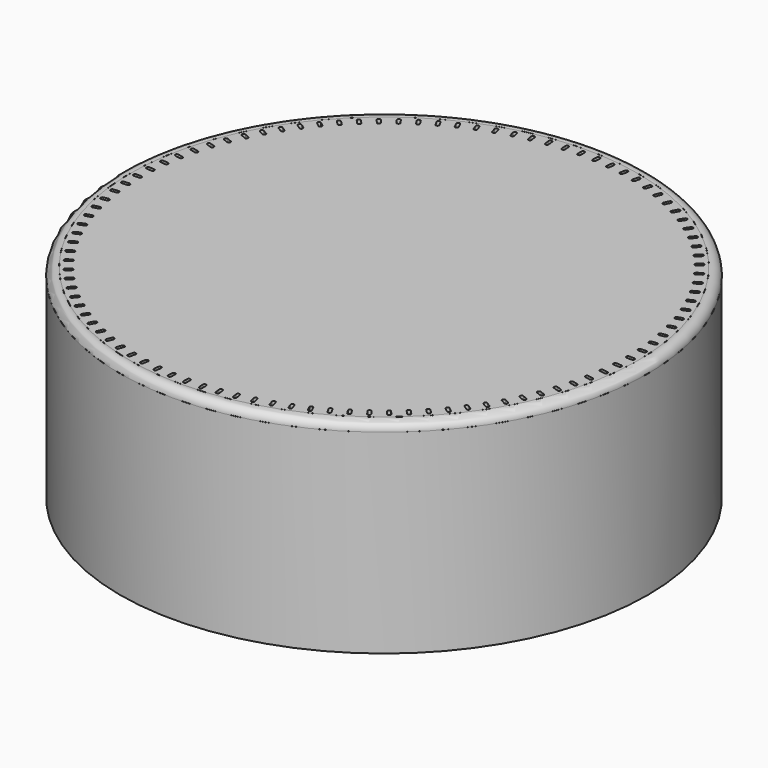
from build123d import *

# Parameters (mm, degrees)
F0_R     = 41.275
F1_DEPTH = 30.48
F2_R     = 39.6875
F3_DEPTH = 1.27
F8_DEPTH = 31.751


with BuildPart() as f1:
    # F0 (on Top) → F1 (new body)
    with BuildSketch(Plane.XY):
        Circle(F0_R)
    extrude(amount=F1_DEPTH)

    # F2 (on face) → F3 (join)
    with BuildSketch(Plane.XY.offset(30.48)):
        Circle(F2_R)
    extrude(amount=F3_DEPTH)

    # F7 (on face) → F8 (cut, through all)
    with BuildSketch(Plane.XY.offset(31.75)):
        with BuildLine():
            ThreePointArc((0.254, 38.9255), (0, 39.1795), (-0.254, 38.9255))
            Line((-0.254, 38.9255), (-0.254, 38.1635))
            ThreePointArc((-0.254, 38.1635), (0, 37.9095), (0.254, 38.1635))
            Line((0.254, 38.1635), (0.254, 38.9255))
        make_face()
        with BuildLine():
            Line((-2.142807, 38.104142), (-2.190654, 38.864638))
            ThreePointArc((-2.190654, 38.864638), (-2.460101, 39.102188), (-2.697651, 38.832741))
            Line((-2.697651, 38.832741), (-2.649805, 38.072244))
            ThreePointArc((-2.649805, 38.072244), (-2.380357, 37.834694), (-2.142807, 38.104142))
        make_face()
        with BuildLine():
            Line((-4.531158, 37.894404), (-4.626662, 38.650395))
            ThreePointArc((-4.626662, 38.650395), (-4.910493, 38.870558), (-5.130656, 38.586726))
            Line((-5.130656, 38.586726), (-5.035152, 37.830735))
            ThreePointArc((-5.035152, 37.830735), (-4.75132, 37.610572), (-4.531158, 37.894404))
        make_face()
        with BuildLine():
            Line((-6.901626, 37.535114), (-7.04441, 38.283617))
            ThreePointArc((-7.04441, 38.283617), (-7.341506, 38.485523), (-7.543412, 38.188428))
            Line((-7.543412, 38.188428), (-7.400628, 37.439925))
            ThreePointArc((-7.400628, 37.439925), (-7.103532, 37.238019), (-6.901626, 37.535114))
        make_face()
        with BuildLine():
            Line((-9.244856, 37.027691), (-9.434358, 37.765751))
            ThreePointArc((-9.434358, 37.765751), (-9.743545, 37.948604), (-9.926398, 37.639417))
            Line((-9.926398, 37.639417), (-9.736897, 36.901356))
            ThreePointArc((-9.736897, 36.901356), (-9.427709, 36.718503), (-9.244856, 37.027691))
        make_face()
        with BuildLine():
            Line((-11.551602, 36.374136), (-11.787073, 37.098841))
            ThreePointArc((-11.787073, 37.098841), (-12.107131, 37.261919), (-12.270209, 36.94186))
            Line((-12.270209, 36.94186), (-12.034738, 36.217155))
            ThreePointArc((-12.034738, 36.217155), (-11.71468, 36.054077), (-11.551602, 36.374136))
        make_face()
        with BuildLine():
            Line((-13.812758, 35.577029), (-14.093269, 36.285518))
            ThreePointArc((-14.093269, 36.285518), (-14.422936, 36.428178), (-14.565596, 36.098511))
            Line((-14.565596, 36.098511), (-14.285085, 35.390021))
            ThreePointArc((-14.285085, 35.390021), (-13.955418, 35.247362), (-13.812758, 35.577029))
        make_face()
        with BuildLine():
            Line((-16.019402, 34.639515), (-16.343846, 35.328993))
            ThreePointArc((-16.343846, 35.328993), (-16.68182, 35.450672), (-16.803498, 35.112697))
            Line((-16.803498, 35.112697), (-16.479054, 34.423219))
            ThreePointArc((-16.479054, 34.423219), (-16.14108, 34.301541), (-16.019402, 34.639515))
        make_face()
        with BuildLine():
            Line((-18.162824, 33.565295), (-18.529921, 34.233041))
            ThreePointArc((-18.529921, 34.233041), (-18.874868, 34.333258), (-18.975085, 33.98831))
            Line((-18.975085, 33.98831), (-18.607988, 33.320565))
            ThreePointArc((-18.607988, 33.320565), (-18.263041, 33.220348), (-18.162824, 33.565295))
        make_face()
        with BuildLine():
            Line((-20.234567, 32.358609), (-20.642867, 33.001987))
            ThreePointArc((-20.642867, 33.001987), (-20.993426, 33.080346), (-21.071785, 32.729787))
            Line((-21.071785, 32.729787), (-20.663485, 32.086409))
            ThreePointArc((-20.663485, 32.086409), (-20.312926, 32.008049), (-20.234567, 32.358609))
        make_face()
        with BuildLine():
            Line((-22.226452, 31.024218), (-22.674345, 31.640688))
            ThreePointArc((-22.674345, 31.640688), (-23.029132, 31.696881), (-23.085325, 31.342094))
            Line((-23.085325, 31.342094), (-22.637433, 30.725623))
            ThreePointArc((-22.637433, 30.725623), (-22.282645, 30.66943), (-22.226452, 31.024218))
        make_face()
        with BuildLine():
            Line((-24.13062, 29.567388), (-24.616337, 30.154519))
            ThreePointArc((-24.616337, 30.154519), (-24.973953, 30.188324), (-25.007758, 29.830708))
            Line((-25.007758, 29.830708), (-24.522041, 29.243576))
            ThreePointArc((-24.522041, 29.243576), (-24.164425, 29.209772), (-24.13062, 29.567388))
        make_face()
        with BuildLine():
            Line((-25.939555, 27.993869), (-26.46118, 28.549343))
            ThreePointArc((-26.46118, 28.549343), (-26.820213, 28.560626), (-26.831496, 28.201593))
            Line((-26.831496, 28.201593), (-26.309872, 27.646119))
            ThreePointArc((-26.309872, 27.646119), (-25.950839, 27.634836), (-25.939555, 27.993869))
        make_face()
        with BuildLine():
            Line((-27.646119, 26.309872), (-28.201593, 26.831496))
            ThreePointArc((-28.201593, 26.831496), (-28.560626, 26.820213), (-28.549343, 26.46118))
            Line((-28.549343, 26.46118), (-27.993869, 25.939555))
            ThreePointArc((-27.993869, 25.939555), (-27.634836, 25.950839), (-27.646119, 26.309872))
        make_face()
        with BuildLine():
            Line((-29.243576, 24.522041), (-29.830708, 25.007758))
            ThreePointArc((-29.830708, 25.007758), (-30.188324, 24.973953), (-30.154519, 24.616337))
            Line((-30.154519, 24.616337), (-29.567388, 24.13062))
            ThreePointArc((-29.567388, 24.13062), (-29.209772, 24.164425), (-29.243576, 24.522041))
        make_face()
        with BuildLine():
            Line((-30.725623, 22.637433), (-31.342094, 23.085325))
            ThreePointArc((-31.342094, 23.085325), (-31.696881, 23.029132), (-31.640688, 22.674345))
            Line((-31.640688, 22.674345), (-31.024218, 22.226452))
            ThreePointArc((-31.024218, 22.226452), (-30.66943, 22.282645), (-30.725623, 22.637433))
        make_face()
        with BuildLine():
            Line((-32.086409, 20.663485), (-32.729787, 21.071785))
            ThreePointArc((-32.729787, 21.071785), (-33.080346, 20.993426), (-33.001987, 20.642867))
            Line((-33.001987, 20.642867), (-32.358609, 20.234567))
            ThreePointArc((-32.358609, 20.234567), (-32.008049, 20.312926), (-32.086409, 20.663485))
        make_face()
        with BuildLine():
            Line((-33.320565, 18.607988), (-33.98831, 18.975085))
            ThreePointArc((-33.98831, 18.975085), (-34.333258, 18.874868), (-34.233041, 18.529921))
            Line((-34.233041, 18.529921), (-33.565295, 18.162824))
            ThreePointArc((-33.565295, 18.162824), (-33.220348, 18.263041), (-33.320565, 18.607988))
        make_face()
        with BuildLine():
            Line((-34.423219, 16.479054), (-35.112697, 16.803498))
            ThreePointArc((-35.112697, 16.803498), (-35.450672, 16.68182), (-35.328993, 16.343846))
            Line((-35.328993, 16.343846), (-34.639515, 16.019402))
            ThreePointArc((-34.639515, 16.019402), (-34.301541, 16.14108), (-34.423219, 16.479054))
        make_face()
        with BuildLine():
            Line((-35.390021, 14.285085), (-36.098511, 14.565596))
            ThreePointArc((-36.098511, 14.565596), (-36.428178, 14.422936), (-36.285518, 14.093269))
            Line((-36.285518, 14.093269), (-35.577029, 13.812758))
            ThreePointArc((-35.577029, 13.812758), (-35.247362, 13.955418), (-35.390021, 14.285085))
        make_face()
        with BuildLine():
            Line((-36.217155, 12.034738), (-36.94186, 12.270209))
            ThreePointArc((-36.94186, 12.270209), (-37.261919, 12.107131), (-37.098841, 11.787073))
            Line((-37.098841, 11.787073), (-36.374136, 11.551602))
            ThreePointArc((-36.374136, 11.551602), (-36.054077, 11.71468), (-36.217155, 12.034738))
        make_face()
        with BuildLine():
            Line((-36.901356, 9.736897), (-37.639417, 9.926398))
            ThreePointArc((-37.639417, 9.926398), (-37.948604, 9.743545), (-37.765751, 9.434358))
            Line((-37.765751, 9.434358), (-37.027691, 9.244856))
            ThreePointArc((-37.027691, 9.244856), (-36.718503, 9.427709), (-36.901356, 9.736897))
        make_face()
        with BuildLine():
            Line((-37.439925, 7.400628), (-38.188428, 7.543412))
            ThreePointArc((-38.188428, 7.543412), (-38.485523, 7.341506), (-38.283617, 7.04441))
            Line((-38.283617, 7.04441), (-37.535114, 6.901626))
            ThreePointArc((-37.535114, 6.901626), (-37.238019, 7.103532), (-37.439925, 7.400628))
        make_face()
        with BuildLine():
            Line((-37.830735, 5.035152), (-38.586726, 5.130656))
            ThreePointArc((-38.586726, 5.130656), (-38.870558, 4.910493), (-38.650395, 4.626662))
            Line((-38.650395, 4.626662), (-37.894404, 4.531158))
            ThreePointArc((-37.894404, 4.531158), (-37.610572, 4.75132), (-37.830735, 5.035152))
        make_face()
        with BuildLine():
            Line((-38.072244, 2.649805), (-38.832741, 2.697651))
            ThreePointArc((-38.832741, 2.697651), (-39.102188, 2.460101), (-38.864638, 2.190654))
            Line((-38.864638, 2.190654), (-38.104142, 2.142807))
            ThreePointArc((-38.104142, 2.142807), (-37.834694, 2.380357), (-38.072244, 2.649805))
        make_face()
        with BuildLine():
            Line((-38.1635, 0.254), (-38.9255, 0.254))
            ThreePointArc((-38.9255, 0.254), (-39.1795, 0), (-38.9255, -0.254))
            Line((-38.9255, -0.254), (-38.1635, -0.254))
            ThreePointArc((-38.1635, -0.254), (-37.9095, 0), (-38.1635, 0.254))
        make_face()
        with BuildLine():
            Line((-38.104142, -2.142807), (-38.864638, -2.190654))
            ThreePointArc((-38.864638, -2.190654), (-39.102188, -2.460101), (-38.832741, -2.697651))
            Line((-38.832741, -2.697651), (-38.072244, -2.649805))
            ThreePointArc((-38.072244, -2.649805), (-37.834694, -2.380357), (-38.104142, -2.142807))
        make_face()
        with BuildLine():
            Line((-37.894404, -4.531158), (-38.650395, -4.626662))
            ThreePointArc((-38.650395, -4.626662), (-38.870558, -4.910493), (-38.586726, -5.130656))
            Line((-38.586726, -5.130656), (-37.830735, -5.035152))
            ThreePointArc((-37.830735, -5.035152), (-37.610572, -4.75132), (-37.894404, -4.531158))
        make_face()
        with BuildLine():
            Line((-37.535114, -6.901626), (-38.283617, -7.04441))
            ThreePointArc((-38.283617, -7.04441), (-38.485523, -7.341506), (-38.188428, -7.543412))
            Line((-38.188428, -7.543412), (-37.439925, -7.400628))
            ThreePointArc((-37.439925, -7.400628), (-37.238019, -7.103532), (-37.535114, -6.901626))
        make_face()
        with BuildLine():
            Line((-37.027691, -9.244856), (-37.765751, -9.434358))
            ThreePointArc((-37.765751, -9.434358), (-37.948604, -9.743545), (-37.639417, -9.926398))
            Line((-37.639417, -9.926398), (-36.901356, -9.736897))
            ThreePointArc((-36.901356, -9.736897), (-36.718503, -9.427709), (-37.027691, -9.244856))
        make_face()
        with BuildLine():
            Line((-36.374136, -11.551602), (-37.098841, -11.787073))
            ThreePointArc((-37.098841, -11.787073), (-37.261919, -12.107131), (-36.94186, -12.270209))
            Line((-36.94186, -12.270209), (-36.217155, -12.034738))
            ThreePointArc((-36.217155, -12.034738), (-36.054077, -11.71468), (-36.374136, -11.551602))
        make_face()
        with BuildLine():
            Line((-35.577029, -13.812758), (-36.285518, -14.093269))
            ThreePointArc((-36.285518, -14.093269), (-36.428178, -14.422936), (-36.098511, -14.565596))
            Line((-36.098511, -14.565596), (-35.390021, -14.285085))
            ThreePointArc((-35.390021, -14.285085), (-35.247362, -13.955418), (-35.577029, -13.812758))
        make_face()
        with BuildLine():
            Line((-34.639515, -16.019402), (-35.328993, -16.343846))
            ThreePointArc((-35.328993, -16.343846), (-35.450672, -16.68182), (-35.112697, -16.803498))
            Line((-35.112697, -16.803498), (-34.423219, -16.479054))
            ThreePointArc((-34.423219, -16.479054), (-34.301541, -16.14108), (-34.639515, -16.019402))
        make_face()
        with BuildLine():
            Line((-33.565295, -18.162824), (-34.233041, -18.529921))
            ThreePointArc((-34.233041, -18.529921), (-34.333258, -18.874868), (-33.98831, -18.975085))
            Line((-33.98831, -18.975085), (-33.320565, -18.607988))
            ThreePointArc((-33.320565, -18.607988), (-33.220348, -18.263041), (-33.565295, -18.162824))
        make_face()
        with BuildLine():
            Line((-32.358609, -20.234567), (-33.001987, -20.642867))
            ThreePointArc((-33.001987, -20.642867), (-33.080346, -20.993426), (-32.729787, -21.071785))
            Line((-32.729787, -21.071785), (-32.086409, -20.663485))
            ThreePointArc((-32.086409, -20.663485), (-32.008049, -20.312926), (-32.358609, -20.234567))
        make_face()
        with BuildLine():
            Line((-31.024218, -22.226452), (-31.640688, -22.674345))
            ThreePointArc((-31.640688, -22.674345), (-31.696881, -23.029132), (-31.342094, -23.085325))
            Line((-31.342094, -23.085325), (-30.725623, -22.637433))
            ThreePointArc((-30.725623, -22.637433), (-30.66943, -22.282645), (-31.024218, -22.226452))
        make_face()
        with BuildLine():
            Line((-29.567388, -24.13062), (-30.154519, -24.616337))
            ThreePointArc((-30.154519, -24.616337), (-30.188324, -24.973953), (-29.830708, -25.007758))
            Line((-29.830708, -25.007758), (-29.243576, -24.522041))
            ThreePointArc((-29.243576, -24.522041), (-29.209772, -24.164425), (-29.567388, -24.13062))
        make_face()
        with BuildLine():
            Line((-27.993869, -25.939555), (-28.549343, -26.46118))
            ThreePointArc((-28.549343, -26.46118), (-28.560626, -26.820213), (-28.201593, -26.831496))
            Line((-28.201593, -26.831496), (-27.646119, -26.309872))
            ThreePointArc((-27.646119, -26.309872), (-27.634836, -25.950839), (-27.993869, -25.939555))
        make_face()
        with BuildLine():
            Line((-26.309872, -27.646119), (-26.831496, -28.201593))
            ThreePointArc((-26.831496, -28.201593), (-26.820213, -28.560626), (-26.46118, -28.549343))
            Line((-26.46118, -28.549343), (-25.939555, -27.993869))
            ThreePointArc((-25.939555, -27.993869), (-25.950839, -27.634836), (-26.309872, -27.646119))
        make_face()
        with BuildLine():
            Line((-24.522041, -29.243576), (-25.007758, -29.830708))
            ThreePointArc((-25.007758, -29.830708), (-24.973953, -30.188324), (-24.616337, -30.154519))
            Line((-24.616337, -30.154519), (-24.13062, -29.567388))
            ThreePointArc((-24.13062, -29.567388), (-24.164425, -29.209772), (-24.522041, -29.243576))
        make_face()
        with BuildLine():
            Line((-22.637433, -30.725623), (-23.085325, -31.342094))
            ThreePointArc((-23.085325, -31.342094), (-23.029132, -31.696881), (-22.674345, -31.640688))
            Line((-22.674345, -31.640688), (-22.226452, -31.024218))
            ThreePointArc((-22.226452, -31.024218), (-22.282645, -30.66943), (-22.637433, -30.725623))
        make_face()
        with BuildLine():
            Line((-20.663485, -32.086409), (-21.071785, -32.729787))
            ThreePointArc((-21.071785, -32.729787), (-20.993426, -33.080346), (-20.642867, -33.001987))
            Line((-20.642867, -33.001987), (-20.234567, -32.358609))
            ThreePointArc((-20.234567, -32.358609), (-20.312926, -32.008049), (-20.663485, -32.086409))
        make_face()
        with BuildLine():
            Line((-18.607988, -33.320565), (-18.975085, -33.98831))
            ThreePointArc((-18.975085, -33.98831), (-18.874868, -34.333258), (-18.529921, -34.233041))
            Line((-18.529921, -34.233041), (-18.162824, -33.565295))
            ThreePointArc((-18.162824, -33.565295), (-18.263041, -33.220348), (-18.607988, -33.320565))
        make_face()
        with BuildLine():
            Line((-16.479054, -34.423219), (-16.803498, -35.112697))
            ThreePointArc((-16.803498, -35.112697), (-16.68182, -35.450672), (-16.343846, -35.328993))
            Line((-16.343846, -35.328993), (-16.019402, -34.639515))
            ThreePointArc((-16.019402, -34.639515), (-16.14108, -34.301541), (-16.479054, -34.423219))
        make_face()
        with BuildLine():
            Line((-14.285085, -35.390021), (-14.565596, -36.098511))
            ThreePointArc((-14.565596, -36.098511), (-14.422936, -36.428178), (-14.093269, -36.285518))
            Line((-14.093269, -36.285518), (-13.812758, -35.577029))
            ThreePointArc((-13.812758, -35.577029), (-13.955418, -35.247362), (-14.285085, -35.390021))
        make_face()
        with BuildLine():
            Line((-12.034738, -36.217155), (-12.270209, -36.94186))
            ThreePointArc((-12.270209, -36.94186), (-12.107131, -37.261919), (-11.787073, -37.098841))
            Line((-11.787073, -37.098841), (-11.551602, -36.374136))
            ThreePointArc((-11.551602, -36.374136), (-11.71468, -36.054077), (-12.034738, -36.217155))
        make_face()
        with BuildLine():
            Line((-9.736897, -36.901356), (-9.926398, -37.639417))
            ThreePointArc((-9.926398, -37.639417), (-9.743545, -37.948604), (-9.434358, -37.765751))
            Line((-9.434358, -37.765751), (-9.244856, -37.027691))
            ThreePointArc((-9.244856, -37.027691), (-9.427709, -36.718503), (-9.736897, -36.901356))
        make_face()
        with BuildLine():
            Line((-7.400628, -37.439925), (-7.543412, -38.188428))
            ThreePointArc((-7.543412, -38.188428), (-7.341506, -38.485523), (-7.04441, -38.283617))
            Line((-7.04441, -38.283617), (-6.901626, -37.535114))
            ThreePointArc((-6.901626, -37.535114), (-7.103532, -37.238019), (-7.400628, -37.439925))
        make_face()
        with BuildLine():
            Line((-5.035152, -37.830735), (-5.130656, -38.586726))
            ThreePointArc((-5.130656, -38.586726), (-4.910493, -38.870558), (-4.626662, -38.650395))
            Line((-4.626662, -38.650395), (-4.531158, -37.894404))
            ThreePointArc((-4.531158, -37.894404), (-4.75132, -37.610572), (-5.035152, -37.830735))
        make_face()
        with BuildLine():
            Line((-2.649805, -38.072244), (-2.697651, -38.832741))
            ThreePointArc((-2.697651, -38.832741), (-2.460101, -39.102188), (-2.190654, -38.864638))
            Line((-2.190654, -38.864638), (-2.142807, -38.104142))
            ThreePointArc((-2.142807, -38.104142), (-2.380357, -37.834694), (-2.649805, -38.072244))
        make_face()
        with BuildLine():
            Line((-0.254, -38.1635), (-0.254, -38.9255))
            ThreePointArc((-0.254, -38.9255), (0, -39.1795), (0.254, -38.9255))
            Line((0.254, -38.9255), (0.254, -38.1635))
            ThreePointArc((0.254, -38.1635), (0, -37.9095), (-0.254, -38.1635))
        make_face()
        with BuildLine():
            Line((2.142807, -38.104142), (2.190654, -38.864638))
            ThreePointArc((2.190654, -38.864638), (2.460101, -39.102188), (2.697651, -38.832741))
            Line((2.697651, -38.832741), (2.649805, -38.072244))
            ThreePointArc((2.649805, -38.072244), (2.380357, -37.834694), (2.142807, -38.104142))
        make_face()
        with BuildLine():
            Line((4.531158, -37.894404), (4.626662, -38.650395))
            ThreePointArc((4.626662, -38.650395), (4.910493, -38.870558), (5.130656, -38.586726))
            Line((5.130656, -38.586726), (5.035152, -37.830735))
            ThreePointArc((5.035152, -37.830735), (4.75132, -37.610572), (4.531158, -37.894404))
        make_face()
        with BuildLine():
            Line((6.901626, -37.535114), (7.04441, -38.283617))
            ThreePointArc((7.04441, -38.283617), (7.341506, -38.485523), (7.543412, -38.188428))
            Line((7.543412, -38.188428), (7.400628, -37.439925))
            ThreePointArc((7.400628, -37.439925), (7.103532, -37.238019), (6.901626, -37.535114))
        make_face()
        with BuildLine():
            Line((9.244856, -37.027691), (9.434358, -37.765751))
            ThreePointArc((9.434358, -37.765751), (9.743545, -37.948604), (9.926398, -37.639417))
            Line((9.926398, -37.639417), (9.736897, -36.901356))
            ThreePointArc((9.736897, -36.901356), (9.427709, -36.718503), (9.244856, -37.027691))
        make_face()
        with BuildLine():
            Line((11.551602, -36.374136), (11.787073, -37.098841))
            ThreePointArc((11.787073, -37.098841), (12.107131, -37.261919), (12.270209, -36.94186))
            Line((12.270209, -36.94186), (12.034738, -36.217155))
            ThreePointArc((12.034738, -36.217155), (11.71468, -36.054077), (11.551602, -36.374136))
        make_face()
        with BuildLine():
            Line((13.812758, -35.577029), (14.093269, -36.285518))
            ThreePointArc((14.093269, -36.285518), (14.422936, -36.428178), (14.565596, -36.098511))
            Line((14.565596, -36.098511), (14.285085, -35.390021))
            ThreePointArc((14.285085, -35.390021), (13.955418, -35.247362), (13.812758, -35.577029))
        make_face()
        with BuildLine():
            Line((16.019402, -34.639515), (16.343846, -35.328993))
            ThreePointArc((16.343846, -35.328993), (16.68182, -35.450672), (16.803498, -35.112697))
            Line((16.803498, -35.112697), (16.479054, -34.423219))
            ThreePointArc((16.479054, -34.423219), (16.14108, -34.301541), (16.019402, -34.639515))
        make_face()
        with BuildLine():
            Line((18.162824, -33.565295), (18.529921, -34.233041))
            ThreePointArc((18.529921, -34.233041), (18.874868, -34.333258), (18.975085, -33.98831))
            Line((18.975085, -33.98831), (18.607988, -33.320565))
            ThreePointArc((18.607988, -33.320565), (18.263041, -33.220348), (18.162824, -33.565295))
        make_face()
        with BuildLine():
            Line((20.234567, -32.358609), (20.642867, -33.001987))
            ThreePointArc((20.642867, -33.001987), (20.993426, -33.080346), (21.071785, -32.729787))
            Line((21.071785, -32.729787), (20.663485, -32.086409))
            ThreePointArc((20.663485, -32.086409), (20.312926, -32.008049), (20.234567, -32.358609))
        make_face()
        with BuildLine():
            Line((22.226452, -31.024218), (22.674345, -31.640688))
            ThreePointArc((22.674345, -31.640688), (23.029132, -31.696881), (23.085325, -31.342094))
            Line((23.085325, -31.342094), (22.637433, -30.725623))
            ThreePointArc((22.637433, -30.725623), (22.282645, -30.66943), (22.226452, -31.024218))
        make_face()
        with BuildLine():
            Line((24.13062, -29.567388), (24.616337, -30.154519))
            ThreePointArc((24.616337, -30.154519), (24.973953, -30.188324), (25.007758, -29.830708))
            Line((25.007758, -29.830708), (24.522041, -29.243576))
            ThreePointArc((24.522041, -29.243576), (24.164425, -29.209772), (24.13062, -29.567388))
        make_face()
        with BuildLine():
            Line((25.939555, -27.993869), (26.46118, -28.549343))
            ThreePointArc((26.46118, -28.549343), (26.820213, -28.560626), (26.831496, -28.201593))
            Line((26.831496, -28.201593), (26.309872, -27.646119))
            ThreePointArc((26.309872, -27.646119), (25.950839, -27.634836), (25.939555, -27.993869))
        make_face()
        with BuildLine():
            Line((27.646119, -26.309872), (28.201593, -26.831496))
            ThreePointArc((28.201593, -26.831496), (28.560626, -26.820213), (28.549343, -26.46118))
            Line((28.549343, -26.46118), (27.993869, -25.939555))
            ThreePointArc((27.993869, -25.939555), (27.634836, -25.950839), (27.646119, -26.309872))
        make_face()
        with BuildLine():
            Line((29.243576, -24.522041), (29.830708, -25.007758))
            ThreePointArc((29.830708, -25.007758), (30.188324, -24.973953), (30.154519, -24.616337))
            Line((30.154519, -24.616337), (29.567388, -24.13062))
            ThreePointArc((29.567388, -24.13062), (29.209772, -24.164425), (29.243576, -24.522041))
        make_face()
        with BuildLine():
            Line((30.725623, -22.637433), (31.342094, -23.085325))
            ThreePointArc((31.342094, -23.085325), (31.696881, -23.029132), (31.640688, -22.674345))
            Line((31.640688, -22.674345), (31.024218, -22.226452))
            ThreePointArc((31.024218, -22.226452), (30.66943, -22.282645), (30.725623, -22.637433))
        make_face()
        with BuildLine():
            Line((32.086409, -20.663485), (32.729787, -21.071785))
            ThreePointArc((32.729787, -21.071785), (33.080346, -20.993426), (33.001987, -20.642867))
            Line((33.001987, -20.642867), (32.358609, -20.234567))
            ThreePointArc((32.358609, -20.234567), (32.008049, -20.312926), (32.086409, -20.663485))
        make_face()
        with BuildLine():
            Line((33.320565, -18.607988), (33.98831, -18.975085))
            ThreePointArc((33.98831, -18.975085), (34.333258, -18.874868), (34.233041, -18.529921))
            Line((34.233041, -18.529921), (33.565295, -18.162824))
            ThreePointArc((33.565295, -18.162824), (33.220348, -18.263041), (33.320565, -18.607988))
        make_face()
        with BuildLine():
            Line((34.423219, -16.479054), (35.112697, -16.803498))
            ThreePointArc((35.112697, -16.803498), (35.450672, -16.68182), (35.328993, -16.343846))
            Line((35.328993, -16.343846), (34.639515, -16.019402))
            ThreePointArc((34.639515, -16.019402), (34.301541, -16.14108), (34.423219, -16.479054))
        make_face()
        with BuildLine():
            Line((35.390021, -14.285085), (36.098511, -14.565596))
            ThreePointArc((36.098511, -14.565596), (36.428178, -14.422936), (36.285518, -14.093269))
            Line((36.285518, -14.093269), (35.577029, -13.812758))
            ThreePointArc((35.577029, -13.812758), (35.247362, -13.955418), (35.390021, -14.285085))
        make_face()
        with BuildLine():
            Line((36.217155, -12.034738), (36.94186, -12.270209))
            ThreePointArc((36.94186, -12.270209), (37.261919, -12.107131), (37.098841, -11.787073))
            Line((37.098841, -11.787073), (36.374136, -11.551602))
            ThreePointArc((36.374136, -11.551602), (36.054077, -11.71468), (36.217155, -12.034738))
        make_face()
        with BuildLine():
            Line((36.901356, -9.736897), (37.639417, -9.926398))
            ThreePointArc((37.639417, -9.926398), (37.948604, -9.743545), (37.765751, -9.434358))
            Line((37.765751, -9.434358), (37.027691, -9.244856))
            ThreePointArc((37.027691, -9.244856), (36.718503, -9.427709), (36.901356, -9.736897))
        make_face()
        with BuildLine():
            Line((37.439925, -7.400628), (38.188428, -7.543412))
            ThreePointArc((38.188428, -7.543412), (38.485523, -7.341506), (38.283617, -7.04441))
            Line((38.283617, -7.04441), (37.535114, -6.901626))
            ThreePointArc((37.535114, -6.901626), (37.238019, -7.103532), (37.439925, -7.400628))
        make_face()
        with BuildLine():
            Line((37.830735, -5.035152), (38.586726, -5.130656))
            ThreePointArc((38.586726, -5.130656), (38.870558, -4.910493), (38.650395, -4.626662))
            Line((38.650395, -4.626662), (37.894404, -4.531158))
            ThreePointArc((37.894404, -4.531158), (37.610572, -4.75132), (37.830735, -5.035152))
        make_face()
        with BuildLine():
            Line((38.072244, -2.649805), (38.832741, -2.697651))
            ThreePointArc((38.832741, -2.697651), (39.102188, -2.460101), (38.864638, -2.190654))
            Line((38.864638, -2.190654), (38.104142, -2.142807))
            ThreePointArc((38.104142, -2.142807), (37.834694, -2.380357), (38.072244, -2.649805))
        make_face()
        with BuildLine():
            Line((38.1635, -0.254), (38.9255, -0.254))
            ThreePointArc((38.9255, -0.254), (39.1795, 0), (38.9255, 0.254))
            Line((38.9255, 0.254), (38.1635, 0.254))
            ThreePointArc((38.1635, 0.254), (37.9095, 0), (38.1635, -0.254))
        make_face()
        with BuildLine():
            Line((38.104142, 2.142807), (38.864638, 2.190654))
            ThreePointArc((38.864638, 2.190654), (39.102188, 2.460101), (38.832741, 2.697651))
            Line((38.832741, 2.697651), (38.072244, 2.649805))
            ThreePointArc((38.072244, 2.649805), (37.834694, 2.380357), (38.104142, 2.142807))
        make_face()
        with BuildLine():
            Line((37.894404, 4.531158), (38.650395, 4.626662))
            ThreePointArc((38.650395, 4.626662), (38.870558, 4.910493), (38.586726, 5.130656))
            Line((38.586726, 5.130656), (37.830735, 5.035152))
            ThreePointArc((37.830735, 5.035152), (37.610572, 4.75132), (37.894404, 4.531158))
        make_face()
        with BuildLine():
            Line((37.535114, 6.901626), (38.283617, 7.04441))
            ThreePointArc((38.283617, 7.04441), (38.485523, 7.341506), (38.188428, 7.543412))
            Line((38.188428, 7.543412), (37.439925, 7.400628))
            ThreePointArc((37.439925, 7.400628), (37.238019, 7.103532), (37.535114, 6.901626))
        make_face()
        with BuildLine():
            Line((37.027691, 9.244856), (37.765751, 9.434358))
            ThreePointArc((37.765751, 9.434358), (37.948604, 9.743545), (37.639417, 9.926398))
            Line((37.639417, 9.926398), (36.901356, 9.736897))
            ThreePointArc((36.901356, 9.736897), (36.718503, 9.427709), (37.027691, 9.244856))
        make_face()
        with BuildLine():
            Line((36.374136, 11.551602), (37.098841, 11.787073))
            ThreePointArc((37.098841, 11.787073), (37.261919, 12.107131), (36.94186, 12.270209))
            Line((36.94186, 12.270209), (36.217155, 12.034738))
            ThreePointArc((36.217155, 12.034738), (36.054077, 11.71468), (36.374136, 11.551602))
        make_face()
        with BuildLine():
            Line((35.577029, 13.812758), (36.285518, 14.093269))
            ThreePointArc((36.285518, 14.093269), (36.428178, 14.422936), (36.098511, 14.565596))
            Line((36.098511, 14.565596), (35.390021, 14.285085))
            ThreePointArc((35.390021, 14.285085), (35.247362, 13.955418), (35.577029, 13.812758))
        make_face()
        with BuildLine():
            Line((34.639515, 16.019402), (35.328993, 16.343846))
            ThreePointArc((35.328993, 16.343846), (35.450672, 16.68182), (35.112697, 16.803498))
            Line((35.112697, 16.803498), (34.423219, 16.479054))
            ThreePointArc((34.423219, 16.479054), (34.301541, 16.14108), (34.639515, 16.019402))
        make_face()
        with BuildLine():
            Line((33.565295, 18.162824), (34.233041, 18.529921))
            ThreePointArc((34.233041, 18.529921), (34.333258, 18.874868), (33.98831, 18.975085))
            Line((33.98831, 18.975085), (33.320565, 18.607988))
            ThreePointArc((33.320565, 18.607988), (33.220348, 18.263041), (33.565295, 18.162824))
        make_face()
        with BuildLine():
            Line((32.358609, 20.234567), (33.001987, 20.642867))
            ThreePointArc((33.001987, 20.642867), (33.080346, 20.993426), (32.729787, 21.071785))
            Line((32.729787, 21.071785), (32.086409, 20.663485))
            ThreePointArc((32.086409, 20.663485), (32.008049, 20.312926), (32.358609, 20.234567))
        make_face()
        with BuildLine():
            Line((31.024218, 22.226452), (31.640688, 22.674345))
            ThreePointArc((31.640688, 22.674345), (31.696881, 23.029132), (31.342094, 23.085325))
            Line((31.342094, 23.085325), (30.725623, 22.637433))
            ThreePointArc((30.725623, 22.637433), (30.66943, 22.282645), (31.024218, 22.226452))
        make_face()
        with BuildLine():
            Line((29.567388, 24.13062), (30.154519, 24.616337))
            ThreePointArc((30.154519, 24.616337), (30.188324, 24.973953), (29.830708, 25.007758))
            Line((29.830708, 25.007758), (29.243576, 24.522041))
            ThreePointArc((29.243576, 24.522041), (29.209772, 24.164425), (29.567388, 24.13062))
        make_face()
        with BuildLine():
            Line((27.993869, 25.939555), (28.549343, 26.46118))
            ThreePointArc((28.549343, 26.46118), (28.560626, 26.820213), (28.201593, 26.831496))
            Line((28.201593, 26.831496), (27.646119, 26.309872))
            ThreePointArc((27.646119, 26.309872), (27.634836, 25.950839), (27.993869, 25.939555))
        make_face()
        with BuildLine():
            Line((26.309872, 27.646119), (26.831496, 28.201593))
            ThreePointArc((26.831496, 28.201593), (26.820213, 28.560626), (26.46118, 28.549343))
            Line((26.46118, 28.549343), (25.939555, 27.993869))
            ThreePointArc((25.939555, 27.993869), (25.950839, 27.634836), (26.309872, 27.646119))
        make_face()
        with BuildLine():
            Line((24.522041, 29.243576), (25.007758, 29.830708))
            ThreePointArc((25.007758, 29.830708), (24.973953, 30.188324), (24.616337, 30.154519))
            Line((24.616337, 30.154519), (24.13062, 29.567388))
            ThreePointArc((24.13062, 29.567388), (24.164425, 29.209772), (24.522041, 29.243576))
        make_face()
        with BuildLine():
            Line((22.637433, 30.725623), (23.085325, 31.342094))
            ThreePointArc((23.085325, 31.342094), (23.029132, 31.696881), (22.674345, 31.640688))
            Line((22.674345, 31.640688), (22.226452, 31.024218))
            ThreePointArc((22.226452, 31.024218), (22.282645, 30.66943), (22.637433, 30.725623))
        make_face()
        with BuildLine():
            Line((20.663485, 32.086409), (21.071785, 32.729787))
            ThreePointArc((21.071785, 32.729787), (20.993426, 33.080346), (20.642867, 33.001987))
            Line((20.642867, 33.001987), (20.234567, 32.358609))
            ThreePointArc((20.234567, 32.358609), (20.312926, 32.008049), (20.663485, 32.086409))
        make_face()
        with BuildLine():
            Line((18.607988, 33.320565), (18.975085, 33.98831))
            ThreePointArc((18.975085, 33.98831), (18.874868, 34.333258), (18.529921, 34.233041))
            Line((18.529921, 34.233041), (18.162824, 33.565295))
            ThreePointArc((18.162824, 33.565295), (18.263041, 33.220348), (18.607988, 33.320565))
        make_face()
        with BuildLine():
            Line((16.479054, 34.423219), (16.803498, 35.112697))
            ThreePointArc((16.803498, 35.112697), (16.68182, 35.450672), (16.343846, 35.328993))
            Line((16.343846, 35.328993), (16.019402, 34.639515))
            ThreePointArc((16.019402, 34.639515), (16.14108, 34.301541), (16.479054, 34.423219))
        make_face()
        with BuildLine():
            Line((14.285085, 35.390021), (14.565596, 36.098511))
            ThreePointArc((14.565596, 36.098511), (14.422936, 36.428178), (14.093269, 36.285518))
            Line((14.093269, 36.285518), (13.812758, 35.577029))
            ThreePointArc((13.812758, 35.577029), (13.955418, 35.247362), (14.285085, 35.390021))
        make_face()
        with BuildLine():
            Line((12.034738, 36.217155), (12.270209, 36.94186))
            ThreePointArc((12.270209, 36.94186), (12.107131, 37.261919), (11.787073, 37.098841))
            Line((11.787073, 37.098841), (11.551602, 36.374136))
            ThreePointArc((11.551602, 36.374136), (11.71468, 36.054077), (12.034738, 36.217155))
        make_face()
        with BuildLine():
            Line((9.736897, 36.901356), (9.926398, 37.639417))
            ThreePointArc((9.926398, 37.639417), (9.743545, 37.948604), (9.434358, 37.765751))
            Line((9.434358, 37.765751), (9.244856, 37.027691))
            ThreePointArc((9.244856, 37.027691), (9.427709, 36.718503), (9.736897, 36.901356))
        make_face()
        with BuildLine():
            Line((7.400628, 37.439925), (7.543412, 38.188428))
            ThreePointArc((7.543412, 38.188428), (7.341506, 38.485523), (7.04441, 38.283617))
            Line((7.04441, 38.283617), (6.901626, 37.535114))
            ThreePointArc((6.901626, 37.535114), (7.103532, 37.238019), (7.400628, 37.439925))
        make_face()
        with BuildLine():
            Line((5.035152, 37.830735), (5.130656, 38.586726))
            ThreePointArc((5.130656, 38.586726), (4.910493, 38.870558), (4.626662, 38.650395))
            Line((4.626662, 38.650395), (4.531158, 37.894404))
            ThreePointArc((4.531158, 37.894404), (4.75132, 37.610572), (5.035152, 37.830735))
        make_face()
        with BuildLine():
            Line((2.649805, 38.072244), (2.697651, 38.832741))
            ThreePointArc((2.697651, 38.832741), (2.460101, 39.102188), (2.190654, 38.864638))
            Line((2.190654, 38.864638), (2.142807, 38.104142))
            ThreePointArc((2.142807, 38.104142), (2.380357, 37.834694), (2.649805, 38.072244))
        make_face()
    extrude(amount=-F8_DEPTH, mode=Mode.SUBTRACT)


with BuildPart() as f6:
    # F4 (on Right) → F6 (revolve)
    with BuildSketch(Plane.YZ):
        with BuildLine():
            Line((-39.6875, 30.48), (-39.6875, 31.75))
            ThreePointArc((-39.6875, 31.75), (-40.786447, 31.496496), (-41.275, 30.48))
            Line((-41.275, 30.48), (-39.6875, 30.48))
        make_face()
    revolve(axis=Axis((0, 0, 17.477874), (0, 0, 1)))


solid = Compound([f1.part, f6.part])
